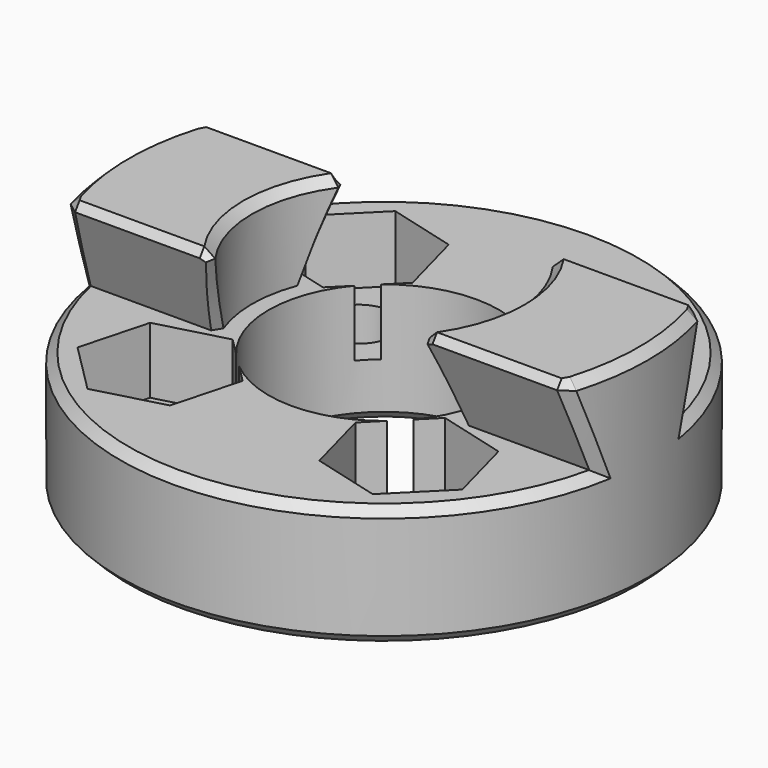
from build123d import *

# Parameters (mm, degrees)
SKETCH010_R     = 12
SKETCH010_R_2   = 5.25
PAD007_DEPTH    = 5.5
PAD008_DEPTH    = 12
SKETCH012_R     = 6
POCKET003_DEPTH = 4
SKETCH013_R     = 17
SKETCH013_R_2   = 12
POCKET004_DEPTH = 5
SKETCH014_R     = 1.5
POCKET005_DEPTH = 5.501
POCKET006_DEPTH = 3
CHAMFER003_SIZE = 0.4


with BuildPart() as part:
    # Sketch010 → Pad007 (new body)
    with BuildSketch(Plane.XY):
        Circle(SKETCH010_R)
        Circle(SKETCH010_R_2, mode=Mode.SUBTRACT)
    extrude(amount=PAD007_DEPTH)

    # Sketch011 (on DatumPlane) → Pad008 (join, symmetric)
    with BuildSketch(Plane.YZ):
        Polygon((-2.5, 5.5), (2.5, 5.5), (4, 9.5), (-4, 9.5), align=None)
    extrude(amount=PAD008_DEPTH, both=True)

    # Sketch012 (on DatumPlane) → Pocket003 (cut)
    with BuildSketch(Plane.XY.offset(5.5)):
        Circle(SKETCH012_R)
    extrude(amount=POCKET003_DEPTH, mode=Mode.SUBTRACT)

    # Sketch013 (on DatumPlane) → Pocket004 (cut)
    with BuildSketch(Plane.XY.offset(5.5)):
        Circle(SKETCH013_R)
        Circle(SKETCH013_R_2, mode=Mode.SUBTRACT)
    extrude(amount=POCKET004_DEPTH, mode=Mode.SUBTRACT)

    # Sketch014 (on DatumPlane) → Pocket005 (cut, through all)
    with BuildSketch(Plane.XY.offset(5.5)):
        with Locations((-5.656854, 5.656854)):
            Circle(SKETCH014_R)
        with Locations((5.656854, 5.656854)):
            Circle(SKETCH014_R)
        with Locations((-5.656854, -5.656854)):
            Circle(SKETCH014_R)
        with Locations((5.656854, -5.656854)):
            Circle(SKETCH014_R)
    extrude(amount=-POCKET005_DEPTH, mode=Mode.SUBTRACT)

    # Sketch015 (on Face5 of Pocket005) → Pocket006 (cut)
    with BuildSketch(Plane(origin=(0, 0, 5.5), x_dir=(0.707107, 0.707107, 0), z_dir=(0, 0, 1))):
        Polygon((-5.228719, -1.6), (-5.228719, 1.6), (-8, 3.2), (-10.771281, 1.6), (-10.771281, -1.6), (-8, -3.2), align=None)
        Polygon((10.771281, -1.6), (10.771281, 1.6), (8, 3.2), (5.228719, 1.6), (5.228719, -1.6), (8, -3.2), align=None)
        Polygon((1.6, -10.771281), (3.2, -8), (1.6, -5.228719), (-1.6, -5.228719), (-3.2, -8), (-1.6, -10.771281), align=None)
        Polygon((1.6, 5.228719), (3.2, 8), (1.6, 10.771281), (-1.6, 10.771281), (-3.2, 8), (-1.6, 5.228719), align=None)
    extrude(amount=-POCKET006_DEPTH, mode=Mode.SUBTRACT)

    # Chamfer003
    chamfer003_edges = [part.edges().sort_by_distance(p)[0] for p in [
        (-12, 0, 0),
        (-7.156854, -5.656854, 0),
        (-5.25, 0, 0),
        (4.156854, -5.656854, 0),
        (-7.156854, 5.656854, 0),
        (4.156854, 5.656854, 0),
        (-11.55126, 3.250907, 7.502418),
        (-7.892922, 4, 9.5),
        (-11.827183, -2.029224, 9.5),
        (-7.892922, -4, 9.5),
        (-6, 0, 9.5),
        (-11.827183, 2.029224, 9.5),
        (-5.039558, 3.256203, 7.51654),
        (-11.55126, -3.250907, 7.502418),
        (-5.039558, -3.256203, 7.51654),
        (5.605034, -2.140933, 9.5),
        (7.892922, -4, 9.5),
        (11.827183, -2.029224, 9.5),
        (11.827183, 2.029224, 9.5),
        (7.892922, 4, 9.5),
        (5.605034, 2.140933, 9.5),
        (5.039558, -3.256203, 7.51654),
        (11.55126, -3.250907, 7.502418),
        (11.55126, 3.250907, 7.502418),
        (5.039558, 3.256203, 7.51654),
        (0, 12, 5.5),
        (0, -12, 5.5),
    ]]
    chamfer(chamfer003_edges, length=CHAMFER003_SIZE)


with BuildPart() as part_1:
    # Body005 placement: moved
    add(part.part.moved(Location((0, 0, -11))))


solid = part_1.part
